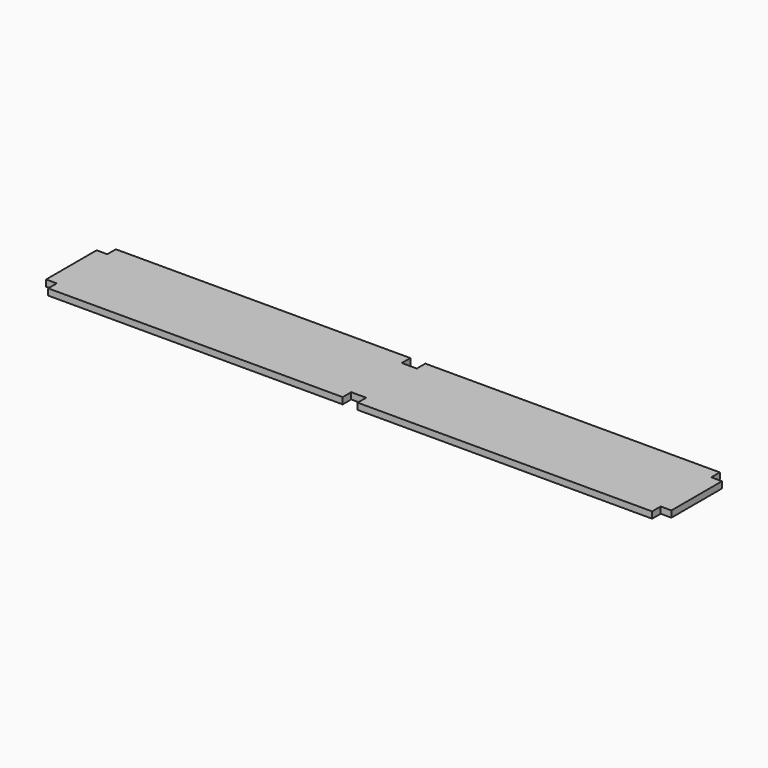
from build123d import *

# Parameters (mm, degrees)
F1_DEPTH = 19.05


with BuildPart() as f1:
    # F0 (on Top) → F1 (new body)
    with BuildSketch(Plane.XY):
        Polygon((-22.225, 125.4125), (-895.35, 125.4125), (-895.35, 93.6625), (-927.1, 93.6625), (-927.1, -93.6625), (-895.35, -93.6625), (-895.35, -125.4125), (-22.225, -125.4125), (-22.225, -93.6625), (22.225, -93.6625), (22.225, -125.4125), (895.35, -125.4125), (895.35, -93.6625), (927.1, -93.6625), (927.1, 93.6625), (895.35, 93.6625), (895.35, 125.4125), (22.225, 125.4125), (22.225, 93.6625), (-22.225, 93.6625), align=None)
    extrude(amount=F1_DEPTH)


solid = f1.part
